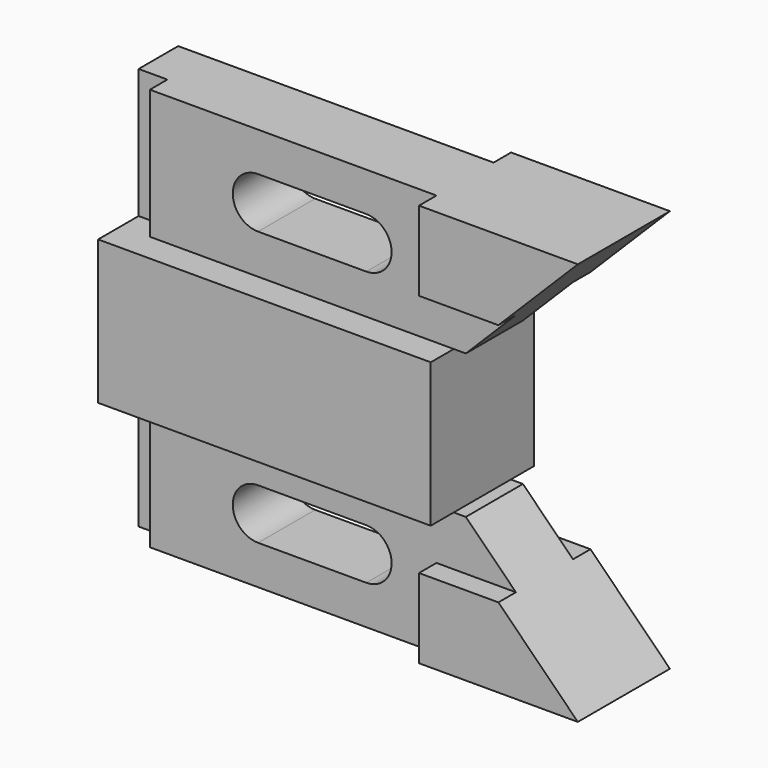
from build123d import *

# Parameters (mm, degrees)
F3_DEPTH = 14.224
F2_W     = 6.35
F2_H     = 28.575
F4_DEPTH = 7.874
F5_DEPTH = 12.7
F6_W     = 6.35
F6_H     = 28.575
F7_DEPTH = 4.826
F9_DEPTH = 25.4


with BuildPart() as f3:
    # F2 (on Front) → F3 (new body, symmetric)
    with BuildSketch(Plane.XZ):
        Polygon((6.35, 15.875), (0, 15.875), (0, -15.875), (6.35, -15.875), (73.406, -15.875), (73.406, 15.875), align=None)
    extrude(amount=F3_DEPTH, both=True)

    # F2 (on Front) → F4 (join, symmetric)
    with BuildSketch(Plane.XZ):
        Polygon((69.596, 44.45), (6.35, 44.45), (6.35, 15.875), (73.406, 15.875), (76.073, 15.875), (87.122, 26.924), (69.596, 26.924), align=None)
        with Locations((3.175, 30.1625)):
            Rectangle(F2_W, F2_H)
        with Locations((3.175, -30.1625)):
            Rectangle(F2_W, F2_H)
        Polygon((73.406, -15.875), (6.35, -15.875), (6.35, -44.45), (69.596, -44.45), (69.596, -26.924), (87.122, -26.924), (76.073, -15.875), align=None)
    extrude(amount=F4_DEPTH, both=True)

    # F2 (on Front) → F5 (join, symmetric)
    with BuildSketch(Plane.XZ):
        Polygon((104.648, 44.45), (69.596, 44.45), (69.596, 26.924), (87.122, 26.924), align=None)
        Polygon((69.596, -26.924), (69.596, -44.45), (104.648, -44.45), (87.122, -26.924), align=None)
    extrude(amount=F5_DEPTH, both=True)

    # F6 (on face) → F7 (cut)
    with BuildSketch(Plane.XZ.offset(7.874)):
        with Locations((3.175, 30.1625)):
            Rectangle(F6_W, F6_H)
        with Locations((3.175, -30.1625)):
            Rectangle(F6_W, F6_H)
    extrude(amount=-F7_DEPTH, mode=Mode.SUBTRACT)

    # F8 (on face) → F9 (cut)
    with BuildSketch(Plane.XZ.offset(7.874)):
        with BuildLine():
            ThreePointArc((30.226, 35.814), (24.638, 30.226), (30.226, 24.638))
            Line((30.226, 24.638), (54.102, 24.638))
            ThreePointArc((54.102, 24.638), (59.69, 30.226), (54.102, 35.814))
            Line((54.102, 35.814), (30.226, 35.814))
        make_face()
        with BuildLine():
            ThreePointArc((30.226, -24.638), (24.638, -30.226), (30.226, -35.814))
            Line((30.226, -35.814), (54.102, -35.814))
            ThreePointArc((54.102, -35.814), (59.69, -30.226), (54.102, -24.638))
            Line((54.102, -24.638), (30.226, -24.638))
        make_face()
    extrude(amount=-F9_DEPTH, mode=Mode.SUBTRACT)


solid = f3.part
